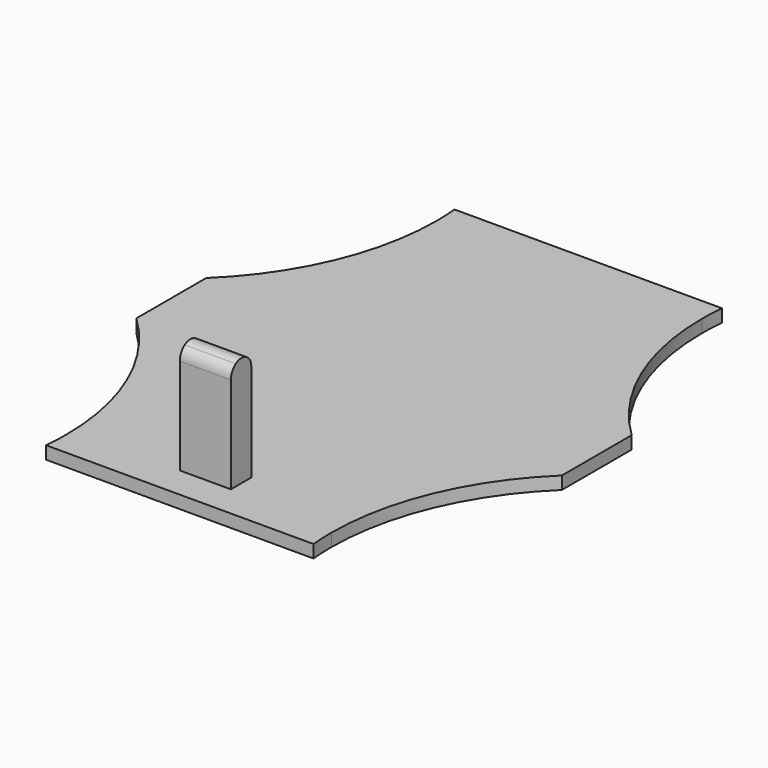
from build123d import *

# Parameters (mm, degrees)
F1_DEPTH = 3
F2_DEPTH = 57
F6_DEPTH = 26
F7_R     = 3.379899
F8_R     = 2.897056


with BuildPart() as f1:
    # F0 (on Top) → F1 (new body)
    with BuildSketch(Plane.XY):
        with BuildLine():
            Line((-55.075931, -7.509255), (-55.075931, 42.226299))
            Line((-55.075931, 42.226299), (-36.499178, 42.226299))
            ThreePointArc((-36.499178, 42.226299), (-154.89147, 58.109982), (-55.075931, -7.509255))
        make_face()
        with BuildLine():
            Line((-36.499178, 42.226299), (-55.075931, 42.226299))
            Line((-55.075931, 42.226299), (-55.075931, -7.509255))
            ThreePointArc((-55.075931, -7.509255), (-41.150625, 12.660964), (-36.247192, 36.675714))
            ThreePointArc((-36.247192, 36.675714), (-36.310221, 39.453865), (-36.499178, 42.226299))
        make_face()
        with BuildLine():
            Line((-5.075931, 42.226299), (-36.499178, 42.226299))
            ThreePointArc((-36.499178, 42.226299), (-36.310221, 39.453865), (-36.247192, 36.675714))
            ThreePointArc((-36.247192, 36.675714), (-41.150625, 12.660964), (-55.075931, -7.509255))
            Line((-55.075931, -7.509255), (-55.075931, -17.773701))
            Line((-55.075931, -17.773701), (-5.075931, -17.773701))
            Line((-5.075931, -17.773701), (-5.075931, 42.226299))
        make_face()
    extrude(amount=F1_DEPTH)

    # F0 (on Top) → F2 (cut)
    with BuildSketch(Plane.XY):
        with BuildLine():
            Line((-36.499178, 42.226299), (-55.075931, 42.226299))
            Line((-55.075931, 42.226299), (-55.075931, -7.509255))
            ThreePointArc((-55.075931, -7.509255), (-41.150625, 12.660964), (-36.247192, 36.675714))
            ThreePointArc((-36.247192, 36.675714), (-36.310221, 39.453865), (-36.499178, 42.226299))
        make_face()
        with BuildLine():
            Line((-55.075931, -7.509255), (-55.075931, 42.226299))
            Line((-55.075931, 42.226299), (-36.499178, 42.226299))
            ThreePointArc((-36.499178, 42.226299), (-154.89147, 58.109982), (-55.075931, -7.509255))
        make_face()
    extrude(amount=F2_DEPTH, mode=Mode.SUBTRACT)

    # F3: F1 across face


with BuildPart() as f1_1:
    add(f1.part)
    add(f1.part.mirror(Plane(origin=(-5.075931, 12.226299, 1.5), x_dir=(0, 1, 0), z_dir=(1, 0, 0))))

    # F4: F1 across face


with BuildPart() as f1_2:
    add(f1_1.part)
    add(f1_1.part.mirror(Plane(origin=(-5.075931, -17.773701, 1.5), x_dir=(1, 0, 0), z_dir=(0, -1, 0))))

    # F5 (on face) → F6 (join)
    with BuildSketch(Plane.XY.offset(3)):
        Polygon((-11.076178, -70.267022), (-5.076178, -70.267022), (0.923822, -70.267022), (0.923822, -64.267022), (-5.076178, -64.267022), (-11.076178, -64.267022), align=None)
    extrude(amount=F6_DEPTH)

    # F7
    f7_edges = [f1_2.edges().sort_by_distance(p)[0] for p in [
        (-5.076178, -70.267022, 29),
    ]]
    fillet(f7_edges, radius=F7_R)

    # F8
    f8_edges = [f1_2.edges().sort_by_distance(p)[0] for p in [
        (-5.076178, -64.267022, 29),
    ]]
    fillet(f8_edges, radius=F8_R)


solid = f1_2.part
